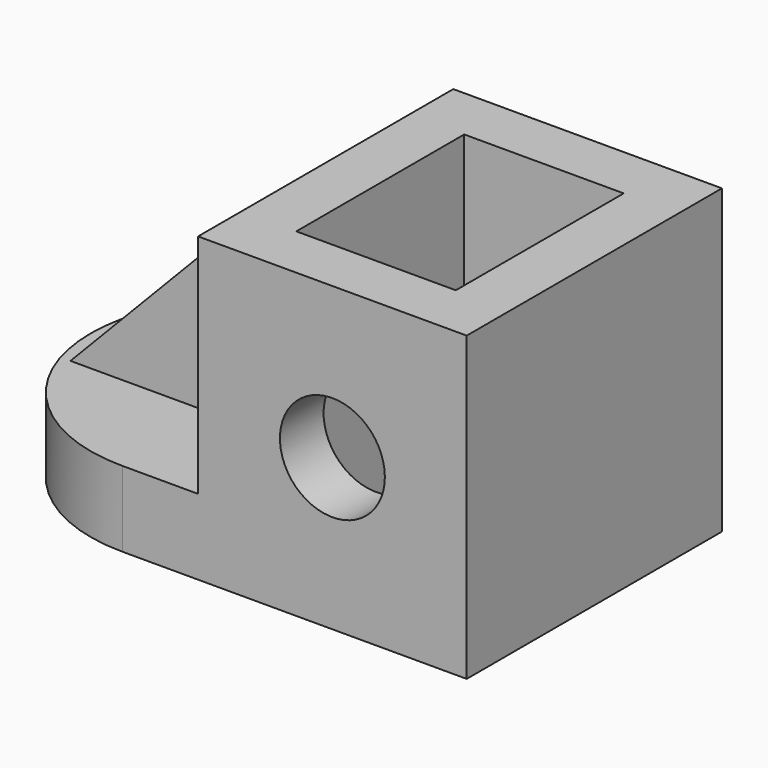
from build123d import *

# Parameters (mm, degrees)
F0_R     = 12.5
F1_DEPTH = 76
F2_W     = 38
F2_H     = 50
F3_DEPTH = 116.9
F5_DEPTH = 123.5
F7_DEPTH = 54
F9_DEPTH = 25


with BuildPart() as f1:
    # F0 (on Front) → F1 (new body)
    with BuildSketch(Plane.XZ):
        Polygon((0, 18), (0, 0), (120, 0), (120, 72), (56, 72), (56, 18), align=None)
        with Locations((88, 36)):
            Circle(F0_R, mode=Mode.SUBTRACT)
    extrude(amount=F1_DEPTH)

    # F2 (on face) → F3 (cut)
    with BuildSketch(Plane.XY.offset(72)):
        with Locations((88, -38)):
            Rectangle(F2_W, F2_H)
    extrude(amount=-F3_DEPTH, mode=Mode.SUBTRACT)

    # F4 (on face) → F5 (cut)
    with BuildSketch(Plane.XY.offset(18)):
        with BuildLine():
            ThreePointArc((38, -76), (11.129942, -64.870058), (0, -38))
            Line((0, -38), (0, -76))
            Line((0, -76), (38, -76))
        make_face()
        with BuildLine():
            ThreePointArc((0, -38), (11.129942, -11.129942), (38, 0))
            Line((38, 0), (0, 0))
            Line((0, 0), (0, -38))
        make_face()
    extrude(amount=-F5_DEPTH, mode=Mode.SUBTRACT)

    # F6 (on face) → F7 (join)
    with BuildSketch(Plane.XY.offset(18)):
        Polygon((56, -49), (56, -38), (56, -27), (4, -27), (4, -49), align=None)
    extrude(amount=F7_DEPTH)

    # F8 (on face) → F9 (cut)
    with BuildSketch(Plane.XZ.offset(49)):
        Polygon((4, 72), (4, 18), (56, 72), align=None)
    extrude(amount=-F9_DEPTH, mode=Mode.SUBTRACT)


solid = f1.part
